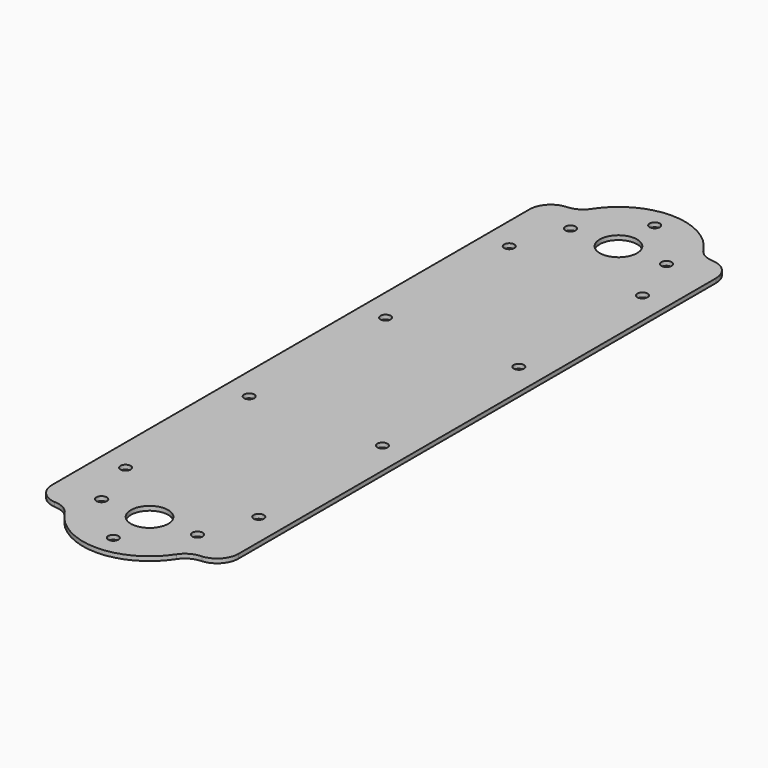
from build123d import *

# Parameters (mm, degrees)
F0_R     = 1.2446
F0_R_2   = 1.2192
F0_R_3   = 4.445
F1_DEPTH = 1.016


with BuildPart() as f1:
    # F0 (on Top) → F1 (new body)
    with BuildSketch(Plane.XY):
        with BuildLine():
            ThreePointArc((13.305479, -78.509091), (15.141437, -76.814431), (17.563232, -76.2))
            Line((17.563232, -76.2), (17.145, -76.2))
            ThreePointArc((17.145, -76.2), (20.737102, -74.712102), (22.225, -71.12))
            Line((22.225, -71.12), (22.225, 71.12))
            ThreePointArc((22.225, 71.12), (20.737102, 74.712102), (17.145, 76.2))
            Line((17.145, 76.2), (17.563232, 76.2))
            ThreePointArc((17.563232, 76.2), (15.141437, 76.814431), (13.305479, 78.509091))
            ThreePointArc((13.305479, 78.509091), (0, 85.725), (-13.305479, 78.509091))
            ThreePointArc((-13.305479, 78.509091), (-15.141437, 76.814431), (-17.563232, 76.2))
            Line((-17.563232, 76.2), (-17.145, 76.2))
            ThreePointArc((-17.145, 76.2), (-20.737102, 74.712102), (-22.225, 71.12))
            Line((-22.225, 71.12), (-22.225, -71.12))
            ThreePointArc((-22.225, -71.12), (-20.737102, -74.712102), (-17.145, -76.2))
            Line((-17.145, -76.2), (-17.563232, -76.2))
            ThreePointArc((-17.563232, -76.2), (-15.141437, -76.814431), (-13.305479, -78.509091))
            ThreePointArc((-13.305479, -78.509091), (0, -85.725), (13.305479, -78.509091))
        make_face()
        with Locations((-11.43, -69.85)):
            Circle(F0_R, mode=Mode.SUBTRACT)
        with Locations((-15.875, -57.15)):
            Circle(F0_R_2, mode=Mode.SUBTRACT)
        with Locations((-15.875, -20.32)):
            Circle(F0_R_2, mode=Mode.SUBTRACT)
        with Locations((0, -80.645)):
            Circle(F0_R_2, mode=Mode.SUBTRACT)
        with Locations((0, -69.85)):
            Circle(F0_R_3, mode=Mode.SUBTRACT)
        with Locations((11.43, -69.85)):
            Circle(F0_R, mode=Mode.SUBTRACT)
        with Locations((15.875, -57.15)):
            Circle(F0_R_2, mode=Mode.SUBTRACT)
        with Locations((15.875, -20.32)):
            Circle(F0_R_2, mode=Mode.SUBTRACT)
        with Locations((-15.875, 20.32)):
            Circle(F0_R_2, mode=Mode.SUBTRACT)
        with Locations((-15.875, 57.15)):
            Circle(F0_R_2, mode=Mode.SUBTRACT)
        with Locations((-11.43, 69.85)):
            Circle(F0_R, mode=Mode.SUBTRACT)
        with Locations((15.875, 20.32)):
            Circle(F0_R_2, mode=Mode.SUBTRACT)
        with Locations((0, 69.85)):
            Circle(F0_R_3, mode=Mode.SUBTRACT)
        with Locations((0, 80.645)):
            Circle(F0_R_2, mode=Mode.SUBTRACT)
        with Locations((15.875, 57.15)):
            Circle(F0_R_2, mode=Mode.SUBTRACT)
        with Locations((11.43, 69.85)):
            Circle(F0_R, mode=Mode.SUBTRACT)
    extrude(amount=F1_DEPTH)


solid = f1.part
